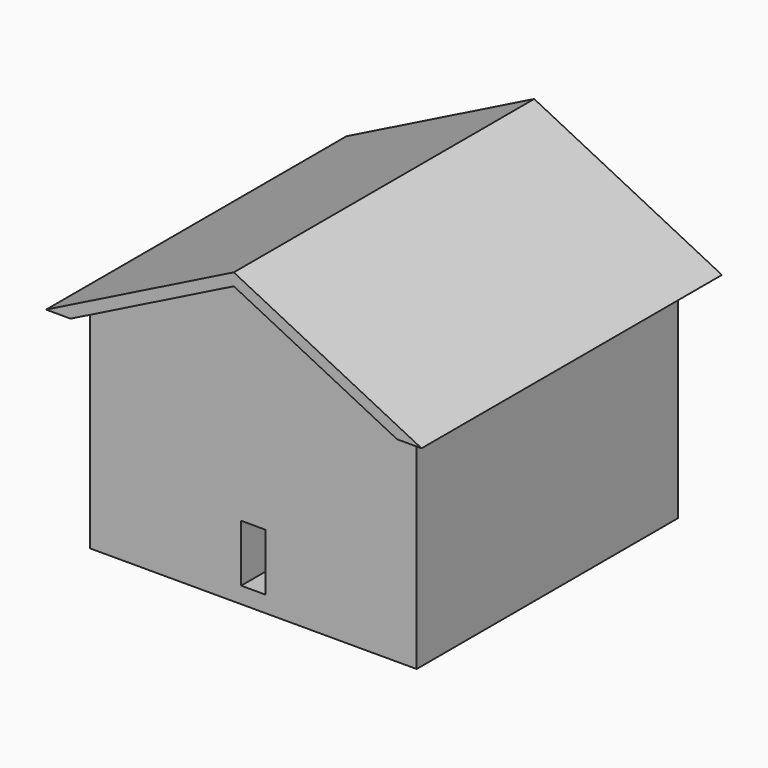
from build123d import *

# Parameters (mm, degrees)
F1_DEPTH = 584.2
F0_W     = 469.9
F0_H     = 50.8
F2_DEPTH = 508


with BuildPart() as f1:
    # F0 (on Front) → F1 (new body, symmetric)
    with BuildSketch(Plane.XZ):
        Polygon((-584.2, 0), (-508, 0), (0, 254), (0, 292.1), align=None)
        Polygon((0, 254), (508, 0), (584.2, 0), (0, 292.1), align=None)
    extrude(amount=F1_DEPTH, both=True)

    # F0 (on Front) → F2 (join, symmetric)
    with BuildSketch(Plane.XZ):
        Polygon((508, 0), (0, 0), (-508, 0), (-508, -609.6), (-38.1, -609.6), (-38.1, -431.8), (38.1, -431.8), (38.1, -609.6), (508, -609.6), align=None)
        Polygon((0, 254), (0, 0), (508, 0), align=None)
        Polygon((-508, 0), (0, 0), (0, 254), align=None)
        Polygon((-584.2, 0), (-508, 0), (0, 254), (0, 292.1), align=None)
        Polygon((0, 254), (508, 0), (584.2, 0), (0, 292.1), align=None)
        with Locations((-273.05, -635)):
            Rectangle(F0_W, F0_H)
        with Locations((273.05, -635)):
            Rectangle(F0_W, F0_H)
        Polygon((0, -609.6), (-38.1, -609.6), (-38.1, -660.4), (38.1, -660.4), (38.1, -609.6), align=None)
    extrude(amount=F2_DEPTH, both=True)


solid = f1.part
